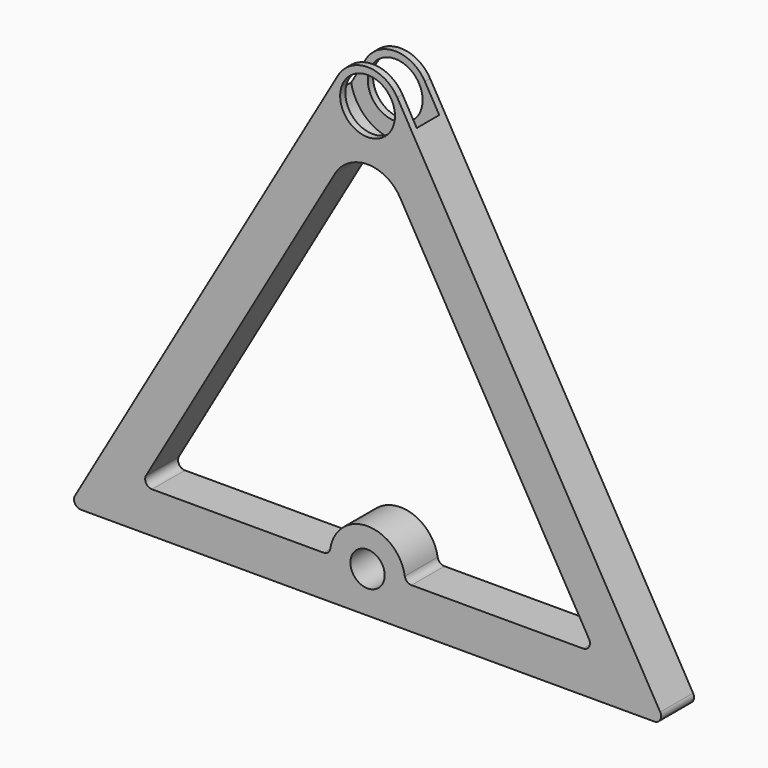
from build123d import *

# Parameters (mm, degrees)
F1_R     = 5
F1_R_2   = 8
F2_DEPTH = 6
F3_R     = 13.05
F4_DEPTH = 4.1


with BuildPart() as f2:
    # F1 (on Front) → F2 (new body, symmetric)
    with BuildSketch(Plane.XZ):
        with BuildLine():
            ThreePointArc((-85.44784, -3), (-85.44784, -5), (-83.715789, -6))
            Line((-83.715789, -6), (83.715789, -6))
            ThreePointArc((83.715789, -6), (85.44784, -5), (85.44784, -3))
            Line((85.44784, -3), (8.660254, 130))
            ThreePointArc((8.660254, 130), (0, 135), (-8.660254, 130))
            Line((-8.660254, 130), (-85.44784, -3))
        make_face()
        with Locations((0, 6)):
            Circle(F1_R, mode=Mode.SUBTRACT)
        with BuildLine():
            Line((-12.845233, 6), (-62.931179, 6))
            ThreePointArc((-62.931179, 6), (-64.66323, 7), (-64.66323, 9))
            Line((-64.66323, 9), (-9.526279, 104.5))
            ThreePointArc((-9.526279, 104.5), (0, 110), (9.526279, 104.5))
            Line((9.526279, 104.5), (64.66323, 9))
            ThreePointArc((64.66323, 9), (64.66323, 7), (62.931179, 6))
            Line((62.931179, 6), (12.845233, 6))
            ThreePointArc((12.845233, 6), (11.544345, 6.480891), (10.869043, 7.692308))
            ThreePointArc((10.869043, 7.692308), (0, 17), (-10.869043, 7.692308))
            ThreePointArc((-10.869043, 7.692308), (-11.544345, 6.480891), (-12.845233, 6))
        make_face(mode=Mode.SUBTRACT)
        with Locations((0, 125)):
            Circle(F1_R_2, mode=Mode.SUBTRACT)
    extrude(amount=F2_DEPTH, both=True)

    # F3 (on Front) → F4 (cut, symmetric)
    with BuildSketch(Plane.XZ):
        with Locations((0, 125)):
            Circle(F3_R)
    extrude(amount=F4_DEPTH, both=True, mode=Mode.SUBTRACT)


solid = f2.part
